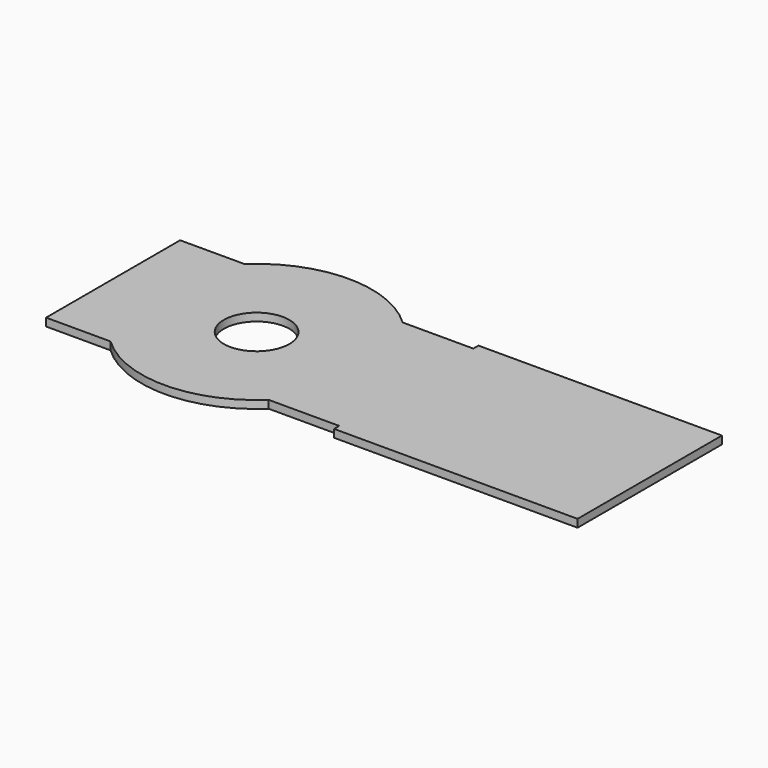
from build123d import *

# Parameters (mm, degrees)
F1_DEPTH = 3


with BuildPart() as f1:
    # F0 (on Top) → F1 (new body)
    with BuildSketch(Plane.XY):
        with BuildLine():
            ThreePointArc((30.199338, 32), (0, 44), (-30.199338, 32))
            Line((-30.199338, 32), (-54.820662, 32))
            Line((-54.820662, 32), (-54.820662, 0))
            Line((-54.820662, 0), (-54.820662, -32))
            Line((-54.820662, -32), (-30.199338, -32))
            ThreePointArc((-30.199338, -32), (0, -44), (30.199338, -32))
            Line((30.199338, -32), (57.179338, -32))
            Line((57.179338, -32), (57.179338, -34.461271))
            Line((57.179338, -34.461271), (150.179338, -34.461271))
            Line((150.179338, -34.461271), (150.179338, 0))
            Line((150.179338, 0), (150.179338, 34.461271))
            Line((150.179338, 34.461271), (57.179338, 34.461271))
            Line((57.179338, 34.461271), (57.179338, 32))
            Line((57.179338, 32), (30.199338, 32))
        make_face()
        with BuildLine():
            ThreePointArc((-12.5, 0), (0, 12.5), (12.5, 0))
            ThreePointArc((12.5, 0), (0, -12.5), (-12.5, 0))
        make_face(mode=Mode.SUBTRACT)
    extrude(amount=F1_DEPTH)


solid = f1.part
